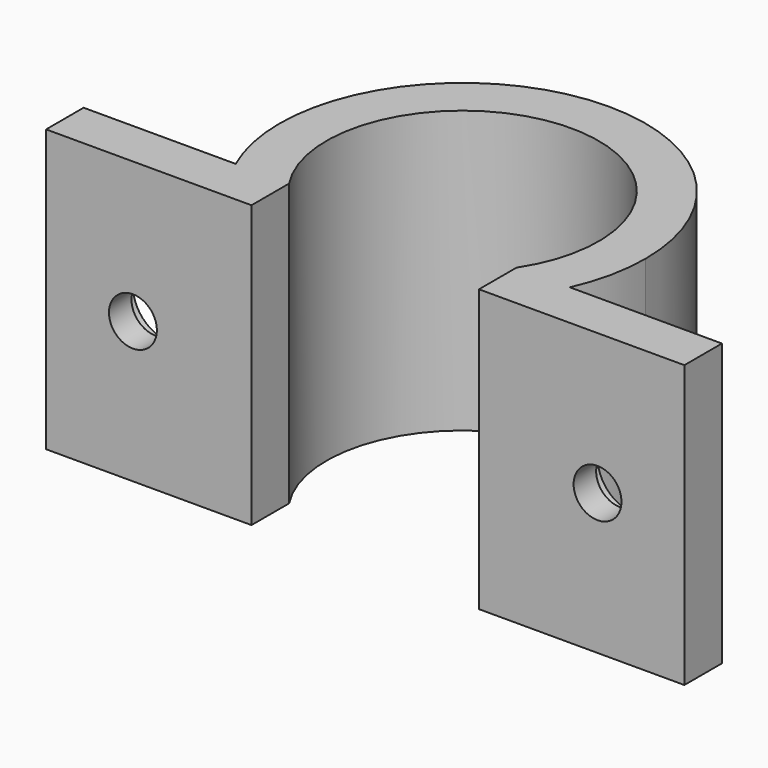
from build123d import *

# Parameters (mm, degrees)
F1_DEPTH = 30
F2_R     = 2.55
F3_DEPTH = 6
F2_R_2   = 4
F4_DEPTH = 2


with BuildPart() as f1:
    # F0 (on Top) → F1 (new body)
    with BuildSketch(Plane.XY):
        with BuildLine():
            Line((-34, 5), (-34, 0))
            Line((-34, 0), (-14.5688022843, 0))
            ThreePointArc((-14.5688022843, 0), (-16.37669445, 2.3759309202), (-17.8006970079, 5))
            Line((-17.8006970079, 5), (-34, 5))
        make_face()
        with BuildLine():
            ThreePointArc((-17.8006970079, 5), (-16.37669445, 2.3759309202), (-14.5688022843, 0))
            Line((-14.5688022843, 0), (-12.1187793927, 0))
            Line((-12.1187793927, 0), (-12.1187793927, 5))
            Line((-12.1187793927, 5), (-17.8006970079, 5))
        make_face()
        with BuildLine():
            ThreePointArc((19.5, 12.9614813968), (-4.0704058978, 32.0319243866), (-17.8006970079, 5))
            Line((-17.8006970079, 5), (-12.1187793927, 5))
            ThreePointArc((-12.1187793927, 5), (-4.1549788692, 26.8534269264), (14.5, 12.9614813968))
            ThreePointArc((14.5, 12.9614813968), (13.8919455296, 8.8065025277), (12.1187793927, 5))
            Line((12.1187793927, 5), (17.8006970079, 5))
            ThreePointArc((17.8006970079, 5), (19.0704429898, 8.891075499), (19.5, 12.9614813968))
        make_face()
        with BuildLine():
            Line((12.1187793927, 0), (14.5688022843, 0))
            ThreePointArc((14.5688022843, 0), (16.37669445, 2.3759309202), (17.8006970079, 5))
            Line((17.8006970079, 5), (12.1187793927, 5))
            Line((12.1187793927, 5), (12.1187793927, 0))
        make_face()
        with BuildLine():
            ThreePointArc((17.8006970079, 5), (16.37669445, 2.3759309202), (14.5688022843, 0))
            Line((14.5688022843, 0), (34, 0))
            Line((34, 0), (34, 5))
            Line((34, 5), (17.8006970079, 5))
        make_face()
    extrude(amount=F1_DEPTH)

    # F2 (on face) → F3 (cut)
    with BuildSketch(Plane(origin=(0, 5, 0), x_dir=(-1, 0, 0), z_dir=(0, 1, 0))):
        with Locations((-24.75, 15)):
            Circle(F2_R)
        with Locations((24.75, 15)):
            Circle(F2_R)
    extrude(amount=-F3_DEPTH, mode=Mode.SUBTRACT)

    # F2 (on face) → F4 (cut)
    with BuildSketch(Plane(origin=(0, 5, 0), x_dir=(-1, 0, 0), z_dir=(0, 1, 0))):
        with Locations((24.75, 15)):
            Circle(F2_R_2)
        with Locations((24.75, 15)):
            Circle(F2_R, mode=Mode.SUBTRACT)
        with Locations((-24.75, 15)):
            Circle(F2_R_2)
        with Locations((-24.75, 15)):
            Circle(F2_R, mode=Mode.SUBTRACT)
    extrude(amount=-F4_DEPTH, mode=Mode.SUBTRACT)


solid = f1.part
